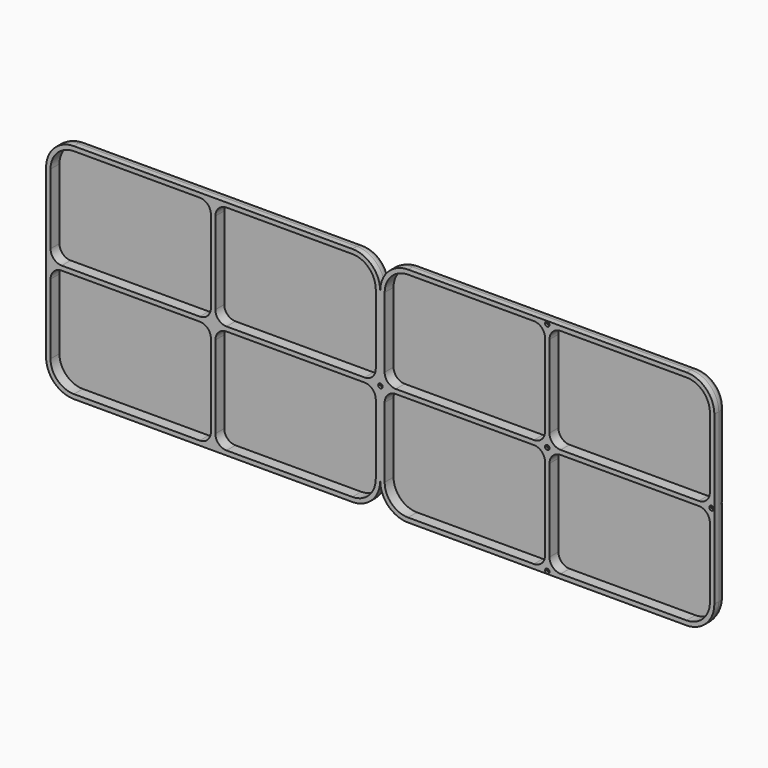
from build123d import *

# Parameters (mm, degrees)
F1_DEPTH       = 15
F3_DEPTH       = 10
F4_R           = 10
F9_D           = 3
F9_CBORE_D     = 4
F9_CBORE_DEPTH = 2


with BuildPart() as f1:
    # F0 (on Front) → F1 (new body)
    with BuildSketch(Plane.XZ):
        with BuildLine():
            Line((-125, -100), (125, -100))
            ThreePointArc((125, -100), (142.67767, -92.67767), (150, -75))
            Line((150, -75), (150, 75))
            ThreePointArc((150, 75), (142.67767, 92.67767), (125, 100))
            Line((125, 100), (-125, 100))
            ThreePointArc((-125, 100), (-142.67767, 92.67767), (-150, 75))
            Line((-150, 75), (-150, -75))
            ThreePointArc((-150, -75), (-142.67767, -92.67767), (-125, -100))
        make_face()
    extrude(amount=F1_DEPTH)

    # F2 (on face) → F3 (cut)
    with BuildSketch(Plane.XZ.offset(15)):
        with BuildLine():
            Line((-12, 96), (-125, 96))
            ThreePointArc((-125, 96), (-139.849242, 89.849242), (-146, 75))
            Line((-146, 75), (-146, 12))
            ThreePointArc((-146, 12), (-143.071068, 4.928932), (-136, 2))
            Line((-136, 2), (-12, 2))
            ThreePointArc((-12, 2), (-4.928932, 4.928932), (-2, 12))
            Line((-2, 12), (-2, 86))
            ThreePointArc((-2, 86), (-4.928932, 93.071068), (-12, 96))
        make_face()
        with BuildLine():
            Line((146, 12), (146, 75))
            ThreePointArc((146, 75), (139.849242, 89.849242), (125, 96))
            Line((125, 96), (12, 96))
            ThreePointArc((12, 96), (4.928932, 93.071068), (2, 86))
            Line((2, 86), (2, 12))
            ThreePointArc((2, 12), (4.928932, 4.928932), (12, 2))
            Line((12, 2), (136, 2))
            ThreePointArc((136, 2), (143.071068, 4.928932), (146, 12))
        make_face()
        with BuildLine():
            ThreePointArc((-146, -75), (-139.849242, -89.849242), (-125, -96))
            Line((-125, -96), (-12, -96))
            ThreePointArc((-12, -96), (-4.928932, -93.071068), (-2, -86))
            Line((-2, -86), (-2, -12))
            ThreePointArc((-2, -12), (-4.928932, -4.928932), (-12, -2))
            Line((-12, -2), (-136, -2))
            ThreePointArc((-136, -2), (-143.071068, -4.928932), (-146, -12))
            Line((-146, -12), (-146, -75))
        make_face()
        with BuildLine():
            ThreePointArc((125, -96), (139.849242, -89.849242), (146, -75))
            Line((146, -75), (146, -12))
            ThreePointArc((146, -12), (143.071068, -4.928932), (136, -2))
            Line((136, -2), (12, -2))
            ThreePointArc((12, -2), (4.928932, -4.928932), (2, -12))
            Line((2, -12), (2, -86))
            ThreePointArc((2, -86), (4.928932, -93.071068), (12, -96))
            Line((12, -96), (125, -96))
        make_face()
    extrude(amount=-F3_DEPTH, mode=Mode.SUBTRACT)

    # F4
    f4_edges = [f1.edges().sort_by_distance(p)[0] for p in [
        (0, 0, 100),
    ]]
    fillet(f4_edges, radius=F4_R)

    # F6: F1 across plane


with BuildPart() as f1_1:
    add(f1.part)
    add(f1.part.mirror(Plane(origin=(-150, -12.5, 0), x_dir=(0, -1, 0), z_dir=(-1, 0, 0))))

    # F9 (through all)
    with Locations(Plane.XZ.offset(15)):
        with Locations((0, 0), (0, -97.730376), (-149.816364, 0), (0, 97.482711), (147.469729, 0)):
            CounterBoreHole(F9_D / 2, F9_CBORE_D / 2, F9_CBORE_DEPTH)


solid = f1_1.part
